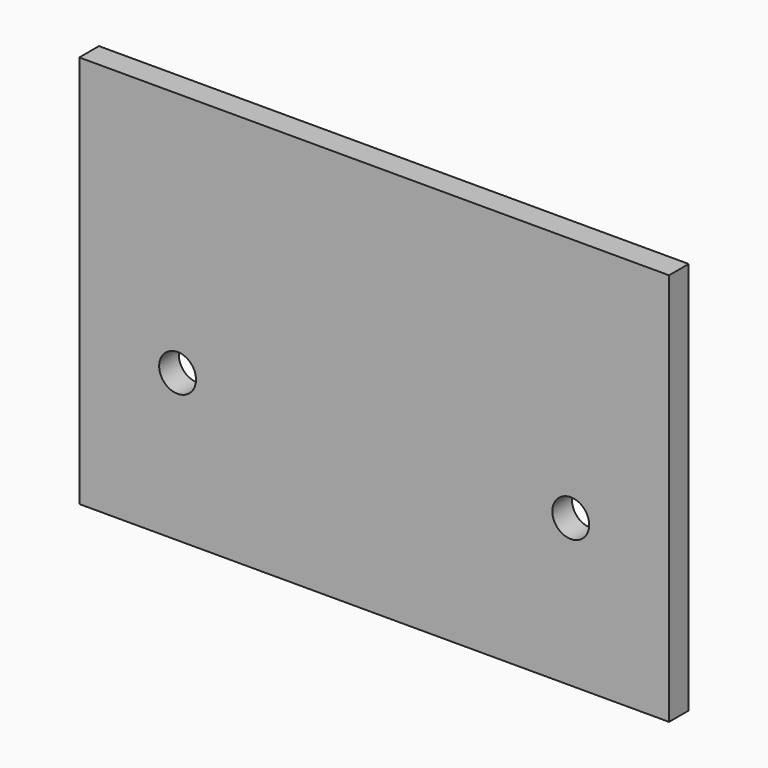
from build123d import *

# Parameters (mm, degrees)
F0_W     = 76.2
F0_H     = 50.8
F1_DEPTH = 1.5875
F2_R     = 2.38125
F3_DEPTH = 3.176


with BuildPart() as f1:
    # F0 (on Front) → F1 (new body, symmetric)
    with BuildSketch(Plane.XZ):
        Rectangle(F0_W, F0_H)
    extrude(amount=F1_DEPTH, both=True)

    # F2 (on face) → F3 (cut, through all)
    with BuildSketch(Plane.XZ.offset(1.5875)):
        with Locations((25.4, -6.35)):
            Circle(F2_R)
        with Locations((-25.4, -6.35)):
            Circle(F2_R)
    extrude(amount=-F3_DEPTH, mode=Mode.SUBTRACT)


solid = f1.part
